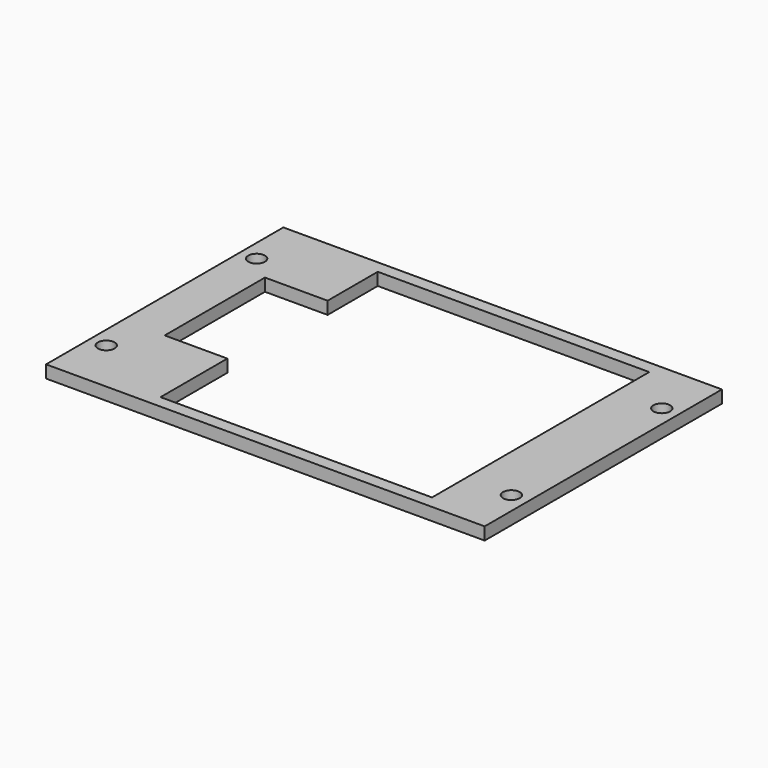
from build123d import *

# Parameters (mm, degrees)
SKETCH001_W     = 105
SKETCH001_H     = 71
PAD_DEPTH       = 3
SKETCH_W        = 80
SKETCH_H        = 65
POCKET_DEPTH    = 5
SKETCH002_R     = 2
POCKET001_DEPTH = 5
SKETCH003_R     = 2
POCKET002_DEPTH = 5
SKETCH004_R     = 2
POCKET003_DEPTH = 5
SKETCH005_R     = 2
POCKET004_DEPTH = 5
SKETCH006_W     = 15
SKETCH006_H     = 65
PAD001_DEPTH    = 3
SKETCH007_W     = 15
SKETCH007_H     = 30
POCKET005_DEPTH = 3


with BuildPart() as part:
    # Sketch001 → Pad (new body)
    with BuildSketch(Plane.XY):
        with Locations((42.5, 32.5)):
            Rectangle(SKETCH001_W, SKETCH001_H)
    extrude(amount=PAD_DEPTH)

    # Sketch → Pocket (cut)
    with BuildSketch(Plane.XY):
        with Locations((40, 32.5)):
            Rectangle(SKETCH_W, SKETCH_H)
    extrude(amount=POCKET_DEPTH, mode=Mode.SUBTRACT)

    # Sketch002 → Pocket001 (cut)
    with BuildSketch(Plane.XY):
        with Locations((-6, 10)):
            Circle(SKETCH002_R)
    extrude(amount=POCKET001_DEPTH, mode=Mode.SUBTRACT)

    # Sketch003 → Pocket002 (cut)
    with BuildSketch(Plane.XY):
        with Locations((-6, 55)):
            Circle(SKETCH003_R)
    extrude(amount=POCKET002_DEPTH, mode=Mode.SUBTRACT)

    # Sketch004 → Pocket003 (cut)
    with BuildSketch(Plane.XY):
        with Locations((91, 10)):
            Circle(SKETCH004_R)
    extrude(amount=POCKET003_DEPTH, mode=Mode.SUBTRACT)

    # Sketch005 → Pocket004 (cut)
    with BuildSketch(Plane.XY):
        with Locations((91, 55)):
            Circle(SKETCH005_R)
    extrude(amount=POCKET004_DEPTH, mode=Mode.SUBTRACT)

    # Sketch006 → Pad001 (join)
    with BuildSketch(Plane.XY):
        with Locations((7.5, 32.5)):
            Rectangle(SKETCH006_W, SKETCH006_H)
    extrude(amount=PAD001_DEPTH)

    # Sketch007 → Pocket005 (cut)
    with BuildSketch(Plane.XY):
        with Locations((7.5, 35)):
            Rectangle(SKETCH007_W, SKETCH007_H)
    extrude(amount=POCKET005_DEPTH, mode=Mode.SUBTRACT)


solid = part.part
